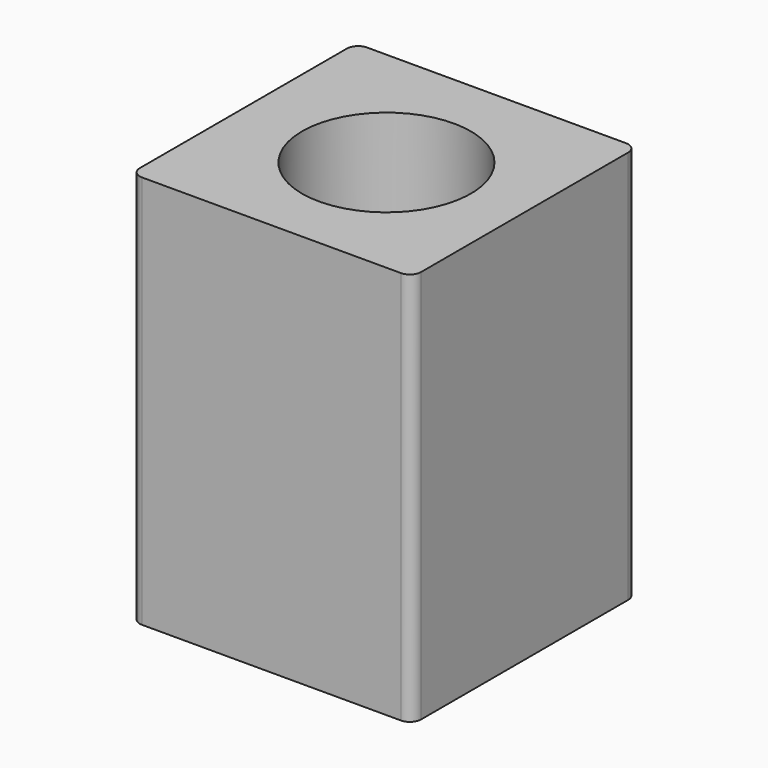
from build123d import *

# Parameters (mm, degrees)
F0_W     = 50
F0_H     = 50
F1_DEPTH = 70
F4_R     = 12.5
F5_DEPTH = 25
F6_R     = 2


with BuildPart() as f1:
    # F0 (on Top) → F1 (new body)
    with BuildSketch(Plane.XY):
        with Locations((-0.674803, 0.298673)):
            Rectangle(F0_W, F0_H)
    extrude(amount=F1_DEPTH)

    # F2 (on Front) → F3 (revolve, cut)
    with BuildSketch(Plane.XZ):
        Polygon((0, 70), (-15, 70), (-15, 30), (-10, 25), (-10, 15), (-15, 15), (-15, 0), (0, 0), align=None)
    revolve(axis=Axis((0, 0, 41.096286), (0, 0, -1)), mode=Mode.SUBTRACT)

    # F4 (on face) → F5 (cut)
    with BuildSketch(Plane(origin=(-25.674803, 0, 0), x_dir=(0, -1, 0), z_dir=(-1, 0, 0))):
        with Locations((0, 45)):
            Circle(F4_R)
    extrude(amount=-F5_DEPTH, mode=Mode.SUBTRACT)

    # F6
    f6_edges = [f1.edges().sort_by_distance(p)[0] for p in [
        (-25.674803, 25.298673, 35),
        (24.325197, 25.298673, 35),
        (24.325197, -24.701327, 35),
        (-25.674803, -24.701327, 35),
    ]]
    fillet(f6_edges, radius=F6_R)


solid = f1.part
